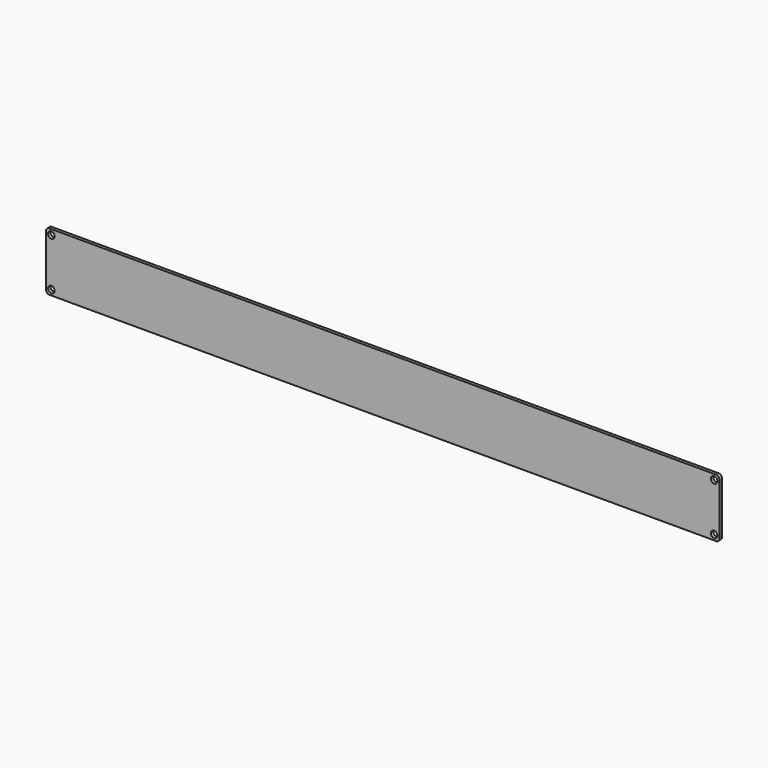
from build123d import *

# Parameters (mm, degrees)
F0_W     = 427
F0_H     = 37.1
F1_DEPTH = 2
F2_R     = 2.02
F3_R     = 2.1
F6_DEPTH = 25
F4_R     = 2.1
F5_R     = 2.1
F7_DEPTH = 25


with BuildPart() as f1:
    # F0 (on Front) → F1 (new body)
    with BuildSketch(Plane.XZ):
        with Locations((-1.23238, -38.803261)):
            Rectangle(F0_W, F0_H)
    extrude(amount=F1_DEPTH)

    # F2
    f2_edges = [f1.edges().sort_by_distance(p)[0] for p in [
        (-214.73238, -1, -20.253261),
        (-214.73238, -1, -57.353261),
        (212.26762, -1, -57.353261),
        (212.26762, -1, -20.253261),
    ]]
    fillet(f2_edges, radius=F2_R)

    # F3 (on face) → F6 (cut)
    with BuildSketch(Plane.XZ.offset(2)):
        with Locations((-211.38238, -23.603261)):
            Circle(F3_R)
    extrude(amount=-F6_DEPTH, mode=Mode.SUBTRACT)

    # F4 (on face) + F5 (on face) → F7 (cut)
    with BuildSketch(Plane.XZ.offset(2)):
        with Locations((-211.38238, -54.003261)):
            Circle(F4_R)
    with BuildSketch(Plane.XZ.offset(2)):
        with Locations((208.91762, -23.603261)):
            Circle(F5_R)
        with Locations((208.91762, -54.003261)):
            Circle(F5_R)
    extrude(amount=-F7_DEPTH, mode=Mode.SUBTRACT)


solid = f1.part
